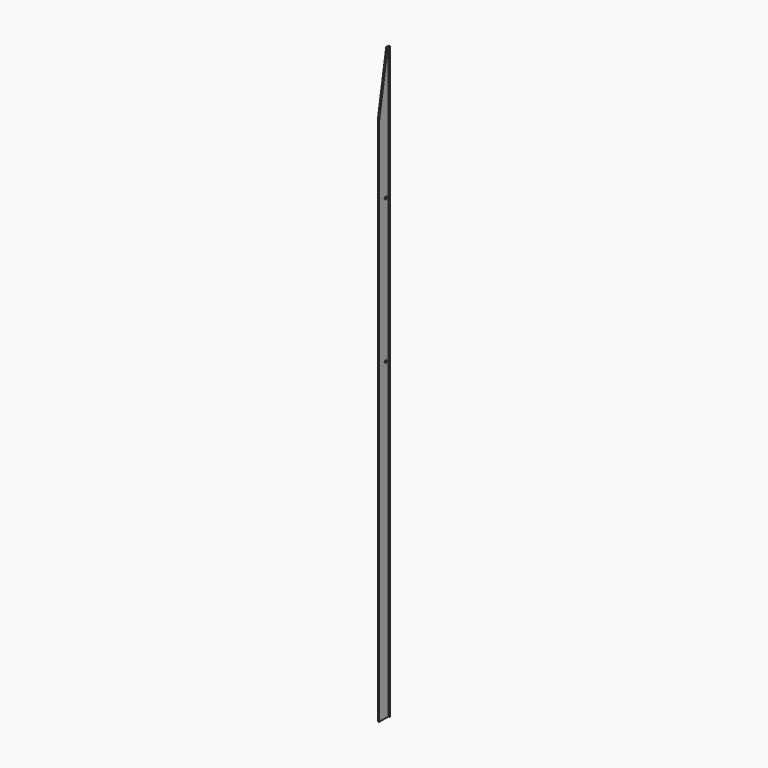
from build123d import *

# Parameters (mm, degrees)
F0_W     = 2.375
F0_H     = 19.5291
F1_DEPTH = 1000
F2_R     = 2.2479
F3_DEPTH = 4.75


with BuildPart() as f1:
    # F0 (on Top) → F1 (new body)
    with BuildSketch(Plane.XY):
        with BuildLine():
            Line((0, 0.921682), (0, 0))
            Line((0, 0), (2.375, 0))
            Line((2.375, 0), (4.75, 0))
            Line((4.75, 0), (4.75, 0.921682))
            Line((4.75, 0.921682), (2.936266, 2.735416))
            ThreePointArc((2.936266, 2.735416), (2.375, 2.9679), (1.813734, 2.735416))
            Line((1.813734, 2.735416), (0, 0.921682))
        make_face()
        with Locations((1.1875, -9.76455)):
            Rectangle(F0_W, F0_H)
    extrude(amount=F1_DEPTH)

    # F2 (on face) → F3 (cut, through all)
    with BuildSketch(Plane(origin=(0, 0, 0), x_dir=(0, -1, 0), z_dir=(-1, 0, 0))):
        Polygon((19.5291, 898.24813), (19.5291, 1000), (1.5875, 1000), align=None)
        with Locations((5.55625, 777.007047)):
            Circle(F2_R)
        with Locations((5.55625, 532.532047)):
            Circle(F2_R)
    extrude(amount=-F3_DEPTH, mode=Mode.SUBTRACT)


solid = f1.part
